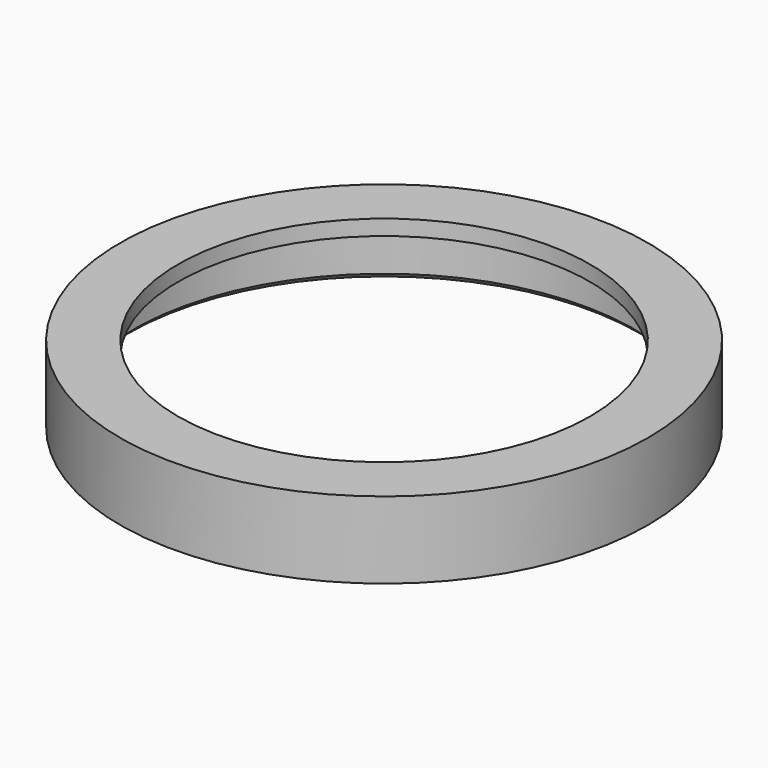
from build123d import *

# Parameters (mm, degrees)
F0_R     = 64.77
F0_R_2   = 51
F1_DEPTH = 3.81
F2_R     = 65.3415
F2_R_2   = 61.976
F3_DEPTH = 19
F4_SIZE  = 1.27


with BuildPart() as f1:
    # F0 (on Top) → F1 (new body)
    with BuildSketch(Plane.XY):
        Circle(F0_R)
        Circle(F0_R_2, mode=Mode.SUBTRACT)
    extrude(amount=-F1_DEPTH)

    # F2 (on face) → F3 (join)
    with BuildSketch(Plane.XY):
        Circle(F2_R)
        Circle(F2_R_2, mode=Mode.SUBTRACT)
    extrude(amount=-F3_DEPTH)

    # F4
    f4_edges = [f1.edges().sort_by_distance(p)[0] for p in [
        (-61.976, 0, -19),
    ]]
    chamfer(f4_edges, length=F4_SIZE)


solid = f1.part
